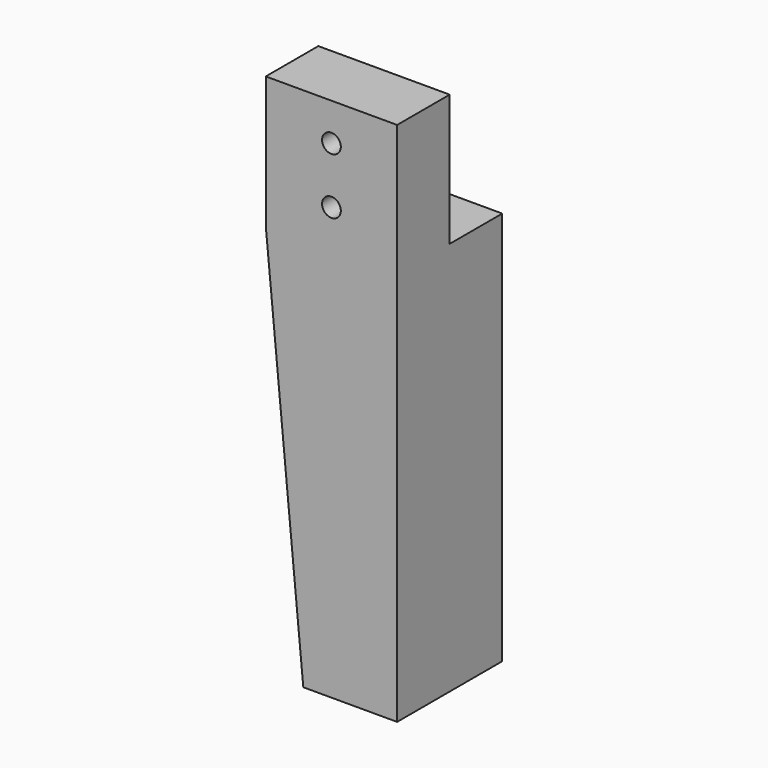
from build123d import *

# Parameters (mm, degrees)
F0_R     = 6.35
F1_DEPTH = 88.9
F2_W     = 44.45
F2_H     = 88.9
F3_DEPTH = 101.6


with BuildPart() as f1:
    # F0 (on Front) → F1 (new body)
    with BuildSketch(Plane.XZ):
        Polygon((44.45, -177.8), (44.45, 177.8), (-44.45, 177.8), (-44.45, 88.9), (-19.05, -177.8), align=None)
        with Locations((0, 114.3)):
            Circle(F0_R, mode=Mode.SUBTRACT)
        with Locations((0, 152.4)):
            Circle(F0_R, mode=Mode.SUBTRACT)
    extrude(amount=F1_DEPTH)

    # F2 (on face) → F3 (cut)
    with BuildSketch(Plane(origin=(-44.45, 0, 0), x_dir=(0, -1, 0), z_dir=(-1, 0, 0))):
        with Locations((22.225, 133.35)):
            Rectangle(F2_W, F2_H)
    extrude(amount=-F3_DEPTH, mode=Mode.SUBTRACT)


with BuildPart() as f4_1:
    # F4: copy of F1
    add(f1.part)


solid = Compound([f1.part, f4_1.part])
